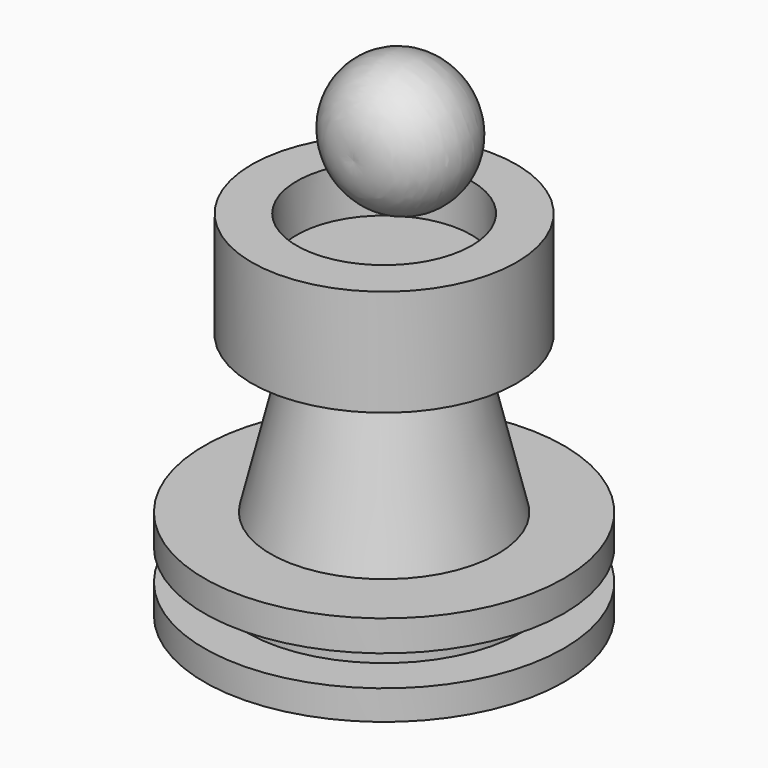
from build123d import *


with BuildPart() as f1:
    # F0 (on Front) → F1 (revolve)
    with BuildSketch(Plane.XZ):
        Polygon((0, 40.5530110002), (0, 36.1689031124), (0, 0), (23.7720999867, 0), (23.7720999867, 3.9143837057), (18.1353874505, 3.9143837057), (18.1353874505, 7.985342294), (23.7720999867, 7.985342294), (23.7720999867, 12.0563022792), (15.0038823485, 12.0563022792), (9.9934702739, 32.7242463827), (17.5090841949, 32.7242463827), (17.5090841949, 46.8160249293), (11.5592237562, 46.8160249293), (11.5592237562, 40.5530110002), align=None)
    revolve(axis=Axis((0, 0, 18.0844515562), (0, 0, -1)))


with BuildPart() as f3:
    # F2 (on Right) → F3 (revolve)
    with BuildSketch(Plane.YZ):
        with BuildLine():
            Line((-5.0658099353, 54.9789406359), (10.4296086356, 55.5749163032))
            ThreePointArc((10.4296086356, 55.5749163032), (2.3393867883, 64.1822845156), (-5.0658099353, 54.9789406359))
        make_face()
    revolve(axis=Axis((0, 2.6818993501, 55.2769284695), (0, 0.9992611795, 0.0384329952)))


solid = Compound([f1.part, f3.part])
